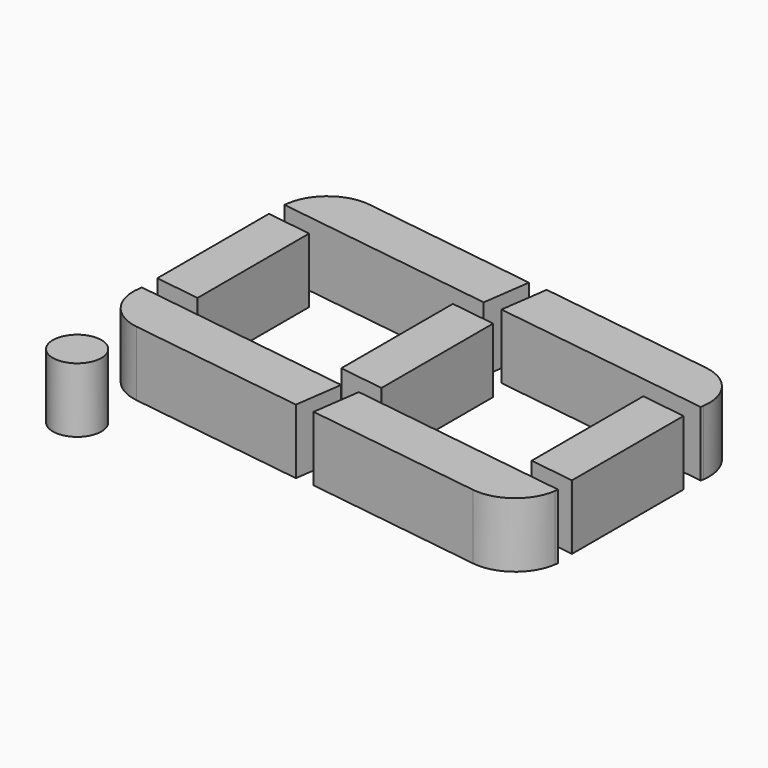
from build123d import *

# Parameters (mm, degrees)
BOX016_W               = 7
BOX016_H               = 1.5
BOX016_DEPTH           = 2
BOX016_PLACEMENT_ANGLE = -8
FILLET007_R            = 1.4
BOX015_W               = 7
BOX015_H               = 1.5
BOX015_DEPTH           = 2
BOX015_PLACEMENT_ANGLE = -8
FILLET004_R            = 1.4
BOX017_W               = 7
BOX017_H               = 1.5
BOX017_DEPTH           = 2
BOX017_PLACEMENT_ANGLE = -8
FILLET006_R            = 1.4
CYLINDER001_R          = 0.75
CYLINDER001_DEPTH      = 2
BOX027_W               = 7
BOX027_H               = 1.4
BOX027_DEPTH           = 2
BOX027_PLACEMENT_ANGLE = -8
BOX026_W               = 7
BOX026_H               = 1.4
BOX026_DEPTH           = 2
BOX026_PLACEMENT_ANGLE = -8
BOX025_W               = 1.4
BOX025_H               = 4.5
BOX025_DEPTH           = 2
BOX018_W               = 7
BOX018_H               = 1.5
BOX018_DEPTH           = 2
BOX018_PLACEMENT_ANGLE = -8
FILLET005_R            = 1.4
BOX024_W               = 7
BOX024_H               = 1.4
BOX024_DEPTH           = 2
BOX024_PLACEMENT_ANGLE = -8
BOX023_W               = 7
BOX023_H               = 1.4
BOX023_DEPTH           = 2
BOX023_PLACEMENT_ANGLE = -8
BOX022_W               = 1.4
BOX022_H               = 4.5
BOX022_DEPTH           = 2
BOX021_W               = 7
BOX021_H               = 1.4
BOX021_DEPTH           = 2
BOX021_PLACEMENT_ANGLE = -8
BOX020_W               = 7
BOX020_H               = 1.4
BOX020_DEPTH           = 2
BOX020_PLACEMENT_ANGLE = -8
BOX019_W               = 1.4
BOX019_H               = 4.5
BOX019_DEPTH           = 2


with BuildPart() as fillet007:
    # Box016 → Box016 (new body)
    with BuildSketch(Plane.XY):
        with Locations((3.5, 0.75)):
            Rectangle(BOX016_W, BOX016_H)
    extrude(amount=BOX016_DEPTH)


with BuildPart() as fillet007_1:
    # Box016 placement: moved
    add(fillet007.part.moved(Location((8.8, 7, 6.2))).rotate(Axis((8.8, 7, 6.2), (0, 0, 1)), BOX016_PLACEMENT_ANGLE))

    # Fillet007
    fillet007_edges = [fillet007_1.edges().sort_by_distance(p)[0] for p in [
        (15.731876, 6.025788, 7.2),
    ]]
    fillet(fillet007_edges, radius=FILLET007_R)


with BuildPart() as fillet007_2:
    # Fillet007 placement: moved
    add(fillet007_1.part.moved(Location((-0.5, 0, 0))))


with BuildPart() as fillet004:
    # Box015 → Box015 (new body)
    with BuildSketch(Plane.XY):
        with Locations((3.5, 0.75)):
            Rectangle(BOX015_W, BOX015_H)
    extrude(amount=BOX015_DEPTH)


with BuildPart() as fillet004_1:
    # Box015 placement: moved
    add(fillet004.part.moved(Location((-0.2, 8, 6.2))).rotate(Axis((-0.2, 8, 6.2), (0, 0, 1)), BOX015_PLACEMENT_ANGLE))

    # Fillet004
    fillet004_edges = [fillet004_1.edges().sort_by_distance(p)[0] for p in [
        (-0.2, 8, 7.2),
    ]]
    fillet(fillet004_edges, radius=FILLET004_R)


with BuildPart() as fillet004_2:
    # Fillet004 placement: moved
    add(fillet004_1.part.moved(Location((1, 0, 0))))


with BuildPart() as fillet006:
    # Box017 → Box017 (new body)
    with BuildSketch(Plane.XY):
        with Locations((3.5, 0.75)):
            Rectangle(BOX017_W, BOX017_H)
    extrude(amount=BOX017_DEPTH)


with BuildPart() as fillet006_1:
    # Box017 placement: moved
    add(fillet006.part.moved(Location((9, 14, 6.2))).rotate(Axis((9, 14, 6.2), (0, 0, 1)), BOX017_PLACEMENT_ANGLE))

    # Fillet006
    fillet006_edges = [fillet006_1.edges().sort_by_distance(p)[0] for p in [
        (16.140636, 14.51119, 7.2),
    ]]
    fillet(fillet006_edges, radius=FILLET006_R)


with BuildPart() as fillet006_2:
    # Fillet006 placement: moved
    add(fillet006_1.part.moved(Location((-0.5, 0, 0))))


with BuildPart() as cylinder001:
    # Cylinder001 → Cylinder001 (new body)
    with BuildSketch(Plane(origin=(1.8, 6, 6.2), x_dir=(1, 0, 0), z_dir=(0, 0, 1))):
        Circle(CYLINDER001_R)
    extrude(amount=CYLINDER001_DEPTH)


with BuildPart() as kub027:
    # Box027 → Box027 (new body)
    with BuildSketch(Plane.XY):
        with Locations((3.5, 0.7)):
            Rectangle(BOX027_W, BOX027_H)
    extrude(amount=BOX027_DEPTH)


with BuildPart() as kub027_1:
    # Box027 placement: moved
    add(kub027.part.moved(Location((-10, 9.2, 6.2))).rotate(Axis((-10, 9.2, 6.2), (0, 0, 1)), BOX027_PLACEMENT_ANGLE))


with BuildPart() as kub026:
    # Box026 → Box026 (new body)
    with BuildSketch(Plane.XY):
        with Locations((3.5, 0.7)):
            Rectangle(BOX026_W, BOX026_H)
    extrude(amount=BOX026_DEPTH)


with BuildPart() as kub026_1:
    # Box026 placement: moved
    add(kub026.part.moved(Location((-9, 14.78, 6.2))).rotate(Axis((-9, 14.78, 6.2), (0, 0, 1)), BOX026_PLACEMENT_ANGLE))


with BuildPart() as cut013:
    # Box025 → Box025 (new body)
    with BuildSketch(Plane(origin=(-7, 10, 6.2), x_dir=(1, 0, 0), z_dir=(0, 0, 1))):
        with Locations((0.7, 2.25)):
            Rectangle(BOX025_W, BOX025_H)
    extrude(amount=BOX025_DEPTH)

    # Cut012: cut Kub026
    add(kub026_1.part, mode=Mode.SUBTRACT)

    # Cut013: cut Kub027
    add(kub027_1.part, mode=Mode.SUBTRACT)


with BuildPart() as cut013_1:
    # Cut013 placement: moved
    add(cut013.part.moved(Location((21, -1.9, 0))))


with BuildPart() as fillet005:
    # Box018 → Box018 (new body)
    with BuildSketch(Plane.XY):
        with Locations((3.5, 0.75)):
            Rectangle(BOX018_W, BOX018_H)
    extrude(amount=BOX018_DEPTH)


with BuildPart() as fillet005_1:
    # Box018 placement: moved
    add(fillet005.part.moved(Location((0, 15, 6.2))).rotate(Axis((0, 15, 6.2), (0, 0, 1)), BOX018_PLACEMENT_ANGLE))

    # Fillet005
    fillet005_edges = [fillet005_1.edges().sort_by_distance(p)[0] for p in [
        (0.20876, 16.485402, 7.2),
    ]]
    fillet(fillet005_edges, radius=FILLET005_R)


with BuildPart() as fillet005_2:
    # Fillet005 placement: moved
    add(fillet005_1.part.moved(Location((1, 0, 0))))


with BuildPart() as kub024:
    # Box024 → Box024 (new body)
    with BuildSketch(Plane.XY):
        with Locations((3.5, 0.7)):
            Rectangle(BOX024_W, BOX024_H)
    extrude(amount=BOX024_DEPTH)


with BuildPart() as kub024_1:
    # Box024 placement: moved
    add(kub024.part.moved(Location((-10, 9.2, 6.2))).rotate(Axis((-10, 9.2, 6.2), (0, 0, 1)), BOX024_PLACEMENT_ANGLE))


with BuildPart() as kub023:
    # Box023 → Box023 (new body)
    with BuildSketch(Plane.XY):
        with Locations((3.5, 0.7)):
            Rectangle(BOX023_W, BOX023_H)
    extrude(amount=BOX023_DEPTH)


with BuildPart() as kub023_1:
    # Box023 placement: moved
    add(kub023.part.moved(Location((-9, 14.78, 6.2))).rotate(Axis((-9, 14.78, 6.2), (0, 0, 1)), BOX023_PLACEMENT_ANGLE))


with BuildPart() as cut011:
    # Box022 → Box022 (new body)
    with BuildSketch(Plane(origin=(-7, 10, 6.2), x_dir=(1, 0, 0), z_dir=(0, 0, 1))):
        with Locations((0.7, 2.25)):
            Rectangle(BOX022_W, BOX022_H)
    extrude(amount=BOX022_DEPTH)

    # Cut010: cut Kub023
    add(kub023_1.part, mode=Mode.SUBTRACT)

    # Cut011: cut Kub024
    add(kub024_1.part, mode=Mode.SUBTRACT)


with BuildPart() as cut011_1:
    # Cut011 placement: moved
    add(cut011.part.moved(Location((14.4, -1, 0))))


with BuildPart() as kub021:
    # Box021 → Box021 (new body)
    with BuildSketch(Plane.XY):
        with Locations((3.5, 0.7)):
            Rectangle(BOX021_W, BOX021_H)
    extrude(amount=BOX021_DEPTH)


with BuildPart() as kub021_1:
    # Box021 placement: moved
    add(kub021.part.moved(Location((-10, 9.2, 6.2))).rotate(Axis((-10, 9.2, 6.2), (0, 0, 1)), BOX021_PLACEMENT_ANGLE))


with BuildPart() as kub020:
    # Box020 → Box020 (new body)
    with BuildSketch(Plane.XY):
        with Locations((3.5, 0.7)):
            Rectangle(BOX020_W, BOX020_H)
    extrude(amount=BOX020_DEPTH)


with BuildPart() as kub020_1:
    # Box020 placement: moved
    add(kub020.part.moved(Location((-9, 14.78, 6.2))).rotate(Axis((-9, 14.78, 6.2), (0, 0, 1)), BOX020_PLACEMENT_ANGLE))


with BuildPart() as fusion001:
    # Box019 → Box019 (new body)
    with BuildSketch(Plane(origin=(-7, 10, 6.2), x_dir=(1, 0, 0), z_dir=(0, 0, 1))):
        with Locations((0.7, 2.25)):
            Rectangle(BOX019_W, BOX019_H)
    extrude(amount=BOX019_DEPTH)

    # Cut008: cut Kub020
    add(kub020_1.part, mode=Mode.SUBTRACT)

    # Cut009: cut Kub021
    add(kub021_1.part, mode=Mode.SUBTRACT)


with BuildPart() as fusion001_1:
    # Cut009 placement: moved
    add(fusion001.part.moved(Location((8, -0.1, 0))))

    # Fusion001: union Fillet007, Fillet004, Fillet006, Cylinder001, Cut013, Fillet005, Cut011
    add(fillet007_2.part)
    add(fillet004_2.part)
    add(fillet006_2.part)
    add(cylinder001.part)
    add(cut013_1.part)
    add(fillet005_2.part)
    add(cut011_1.part)


with BuildPart() as fusion001_2:
    # Fusion001 placement: moved
    add(fusion001_1.part.moved(Location((0, -11, 0))))


solid = fusion001_2.part
